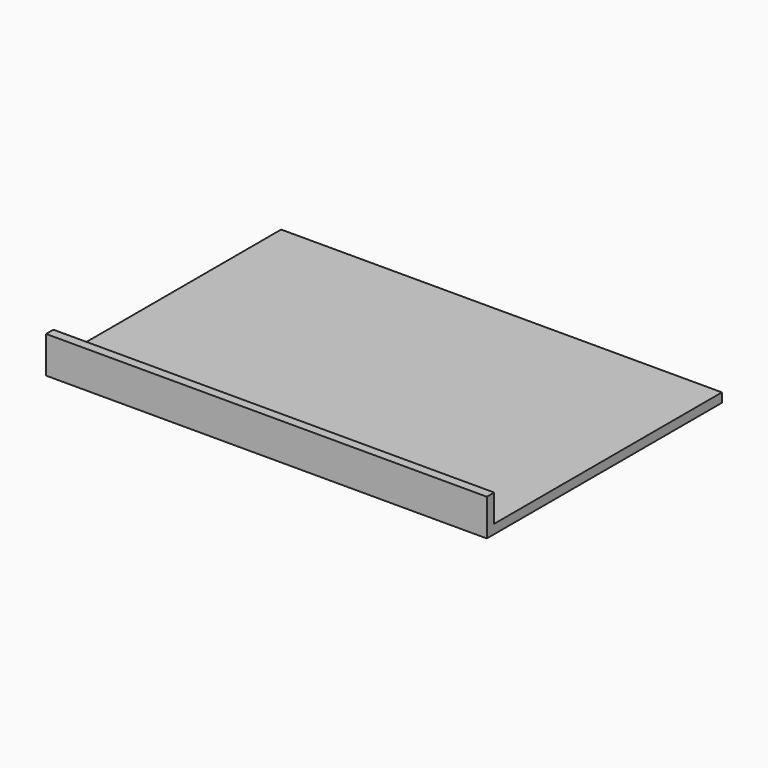
from build123d import *

# Parameters (mm, degrees)
F0_W     = 152.4
F0_H     = 101.6
F1_DEPTH = 12.7
F2_T     = -3.175


with BuildPart() as f1:
    # F0 (on Top) → F1 (new body)
    with BuildSketch(Plane.XY):
        Rectangle(F0_W, F0_H)
    extrude(amount=F1_DEPTH)

    # F2
    f2_openings = [f1.faces().sort_by_distance(p)[0] for p in [
        (-76.2, 0, 6.35),
        (0, 0, 12.7),
        (76.2, 0, 6.35),
        (0, 50.8, 6.35),
    ]]
    offset(amount=F2_T, openings=f2_openings)


solid = f1.part
